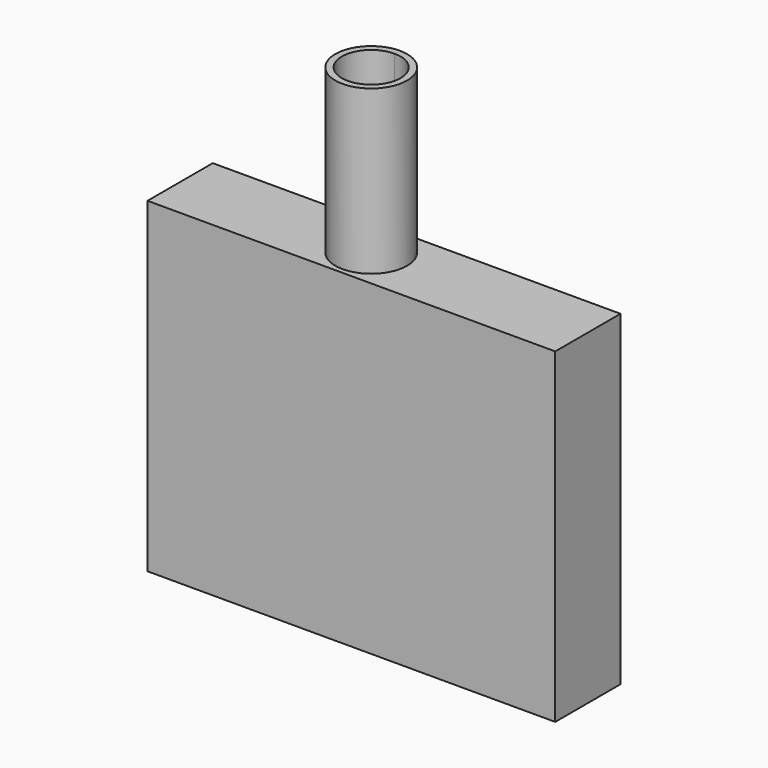
from build123d import *

# Parameters (mm, degrees)
F0_W     = 125
F0_H     = 25
F1_DEPTH = 100
F3_DEPTH = 50


with BuildPart() as f1:
    # F0 (on Top) → F1 (new body)
    with BuildSketch(Plane.XY):
        Rectangle(F0_W, F0_H)
    extrude(amount=F1_DEPTH)

    # F2 (on face) → F3 (join)
    with BuildSketch(Plane.XY.offset(100)):
        with BuildLine():
            Line((-3.9200801402, 9), (-3.9200801402, 11))
            ThreePointArc((-3.9200801402, 11), (-14.9200801402, 0), (-3.9200801402, -11))
            Line((-3.9200801402, -11), (-3.9200801402, -9))
            ThreePointArc((-3.9200801402, -9), (-12.9200801402, 0), (-3.9200801402, 9))
        make_face()
        with BuildLine():
            ThreePointArc((7.0799198598, 0), (3.8580944528, 7.7781745931), (-3.9200801402, 11))
            Line((-3.9200801402, 11), (-3.9200801402, 9))
            ThreePointArc((-3.9200801402, 9), (2.4438808904, 6.3639610307), (5.0799198598, 0))
            ThreePointArc((5.0799198598, 0), (2.4438808904, -6.3639610307), (-3.9200801402, -9))
            Line((-3.9200801402, -9), (-3.9200801402, -11))
            ThreePointArc((-3.9200801402, -11), (3.8580944528, -7.7781745931), (7.0799198598, 0))
        make_face()
    extrude(amount=F3_DEPTH)


solid = f1.part
